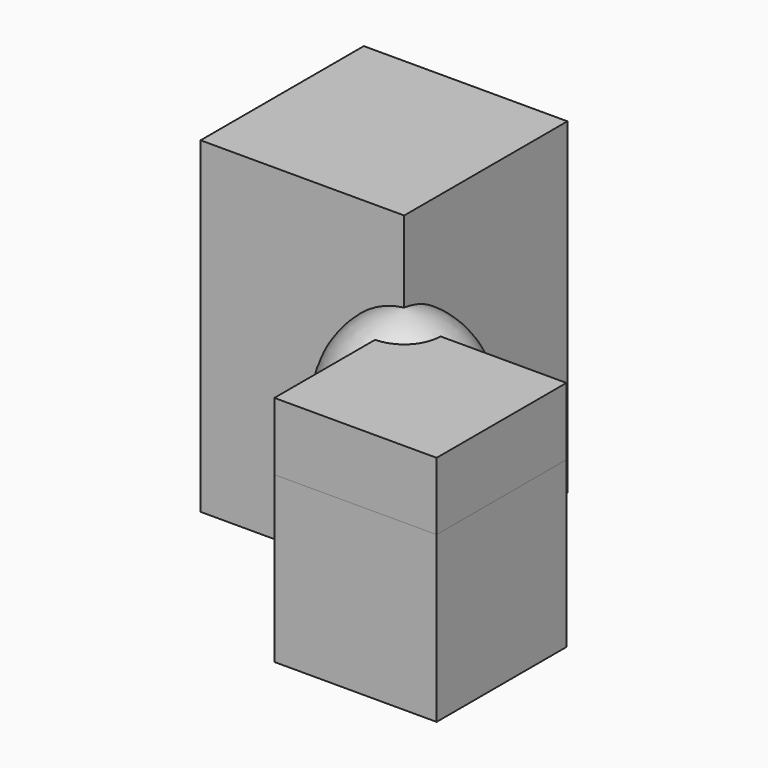
from build123d import *

# Parameters (mm, degrees)
F2_W     = 60
F2_H     = 60
F3_DEPTH = 25
F5_W     = 60
F5_H     = 60
F6_DEPTH = 61
F7_W     = 75.306565
F7_H     = 75.456277
F8_DEPTH = 121


with BuildPart() as f1:
    # F0 (on Front) → F1 (revolve)
    with BuildSketch(Plane.XZ):
        with BuildLine():
            ThreePointArc((0, 30), (-26.673665, 0), (0, -30))
            Line((0, -30), (0, 30))
        make_face()
    revolve(axis=Axis((0, 0, 0), (0, 0, 1)))


with BuildPart() as f3:
    # F2 (on Top) → F3 (new body)
    with BuildSketch(Plane.XY):
        with Locations((30, -30)):
            Rectangle(F2_W, F2_H)
    extrude(amount=F3_DEPTH)

    # F4: cut F1
    add(f1.part, mode=Mode.SUBTRACT)


with BuildPart() as f6:
    # F5 (on face) → F6 (new body)
    with BuildSketch(Plane(origin=(0, 0, 0), x_dir=(1, 0, 0), z_dir=(0, 0, -1))):
        with Locations((30, 30)):
            Rectangle(F5_W, F5_H)
    extrude(amount=F6_DEPTH)

    # F10: cut F1
    add(f1.part, mode=Mode.SUBTRACT)


with BuildPart() as f8:
    # F7 (on face) → F8 (new body)
    with BuildSketch(Plane(origin=(0, 0, -61), x_dir=(1, 0, 0), z_dir=(0, 0, -1))):
        with Locations((-37.653282, -37.728139)):
            Rectangle(F7_W, F7_H)
    extrude(amount=-F8_DEPTH)

    # F9: cut F1
    add(f1.part, mode=Mode.SUBTRACT)


solid = Compound([f1.part, f3.part, f6.part, f8.part])
